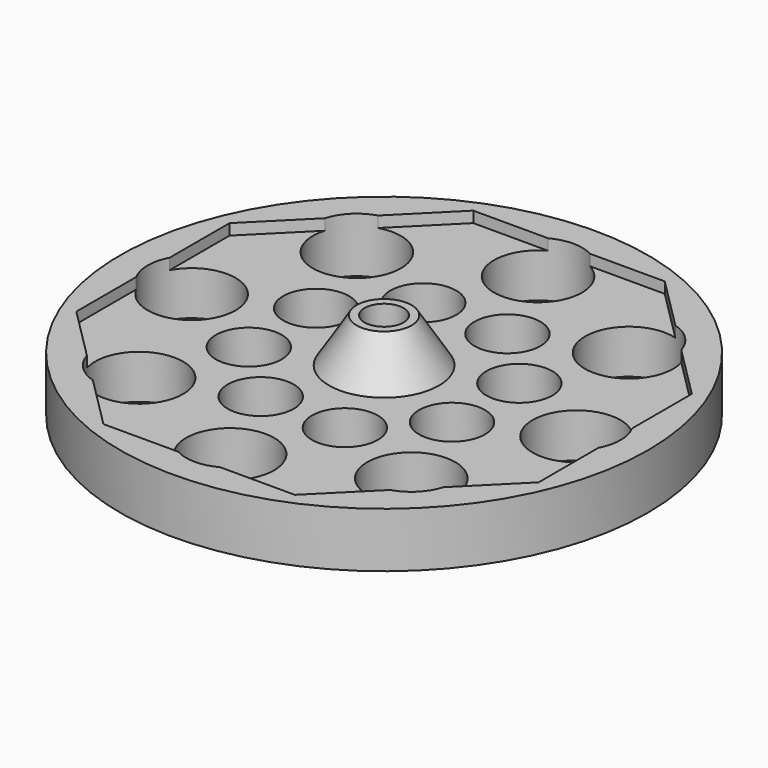
from build123d import *

# Parameters (mm, degrees)
SKETCH_R       = 48
SKETCH_R_2     = 8
SKETCH_R_3     = 6
PAD_DEPTH      = 10
POCKET_DEPTH   = 2
CYLINDER_R     = 3.55
CYLINDER_DEPTH = 16
BOX_W          = 3
BOX_H          = 1.7
BOX_DEPTH      = 9.5
TORUS_R        = 1.5
TORUS_ANGLE    = 90


with BuildPart() as part:
    # Sketch → Pad (new body)
    with BuildSketch(Plane.XY):
        Circle(SKETCH_R)
        with Locations((0, 35)):
            Circle(SKETCH_R_2, mode=Mode.SUBTRACT)
        with Locations((24.748737, 24.748737)):
            Circle(SKETCH_R_2, mode=Mode.SUBTRACT)
        with Locations((35, 0)):
            Circle(SKETCH_R_2, mode=Mode.SUBTRACT)
        with Locations((24.748737, -24.748737)):
            Circle(SKETCH_R_2, mode=Mode.SUBTRACT)
        with Locations((0, -35)):
            Circle(SKETCH_R_2, mode=Mode.SUBTRACT)
        with Locations((-24.748737, -24.748737)):
            Circle(SKETCH_R_2, mode=Mode.SUBTRACT)
        with Locations((-35, 0)):
            Circle(SKETCH_R_2, mode=Mode.SUBTRACT)
        with Locations((-24.748737, 24.748737)):
            Circle(SKETCH_R_2, mode=Mode.SUBTRACT)
        with Locations((-7.653669, -18.477591)):
            Circle(SKETCH_R_3, mode=Mode.SUBTRACT)
        with Locations((7.653669, -18.477591)):
            Circle(SKETCH_R_3, mode=Mode.SUBTRACT)
        with Locations((18.477591, -7.653669)):
            Circle(SKETCH_R_3, mode=Mode.SUBTRACT)
        with Locations((18.477591, 7.653669)):
            Circle(SKETCH_R_3, mode=Mode.SUBTRACT)
        with Locations((7.653669, 18.477591)):
            Circle(SKETCH_R_3, mode=Mode.SUBTRACT)
        with Locations((-7.653669, 18.477591)):
            Circle(SKETCH_R_3, mode=Mode.SUBTRACT)
        with Locations((-18.477591, 7.653669)):
            Circle(SKETCH_R_3, mode=Mode.SUBTRACT)
        with Locations((-18.477591, -7.653669)):
            Circle(SKETCH_R_3, mode=Mode.SUBTRACT)
    extrude(amount=PAD_DEPTH)

    # Sketch001 (on Face19 of Pad) → Pocket (cut)
    with BuildSketch(Plane.XY.offset(10)):
        Polygon((42.036519, 17.412096), (17.412096, 42.036519), (-17.412096, 42.036519), (-42.036519, 17.412096), (-42.036519, -17.412096), (-17.412096, -42.036519), (17.412096, -42.036519), (42.036519, -17.412096), align=None)
    extrude(amount=-POCKET_DEPTH, mode=Mode.SUBTRACT)

    # Cone → Cone (revolve)
    with BuildSketch(Plane(origin=(0, 0, 8), x_dir=(1, 0, 0), z_dir=(0, -1, 0))):
        Polygon((0, 0), (10, 0), (5, 8), (0, 8), align=None)
    revolve(axis=Axis((0, 0, 8), (0, 0, 1)))

    # Cylinder → Cylinder (cut)
    with BuildSketch(Plane(origin=(0, 0, 16), x_dir=(-1, 0, 0), z_dir=(0, 0, -1))):
        Circle(CYLINDER_R)
    extrude(amount=CYLINDER_DEPTH, mode=Mode.SUBTRACT)

    # Box → Box (cut)
    with BuildSketch(Plane(origin=(-0.8, -3, 0), x_dir=(0, -1, 0), z_dir=(0, 0, 1))):
        with Locations((1.5, 0.85)):
            Rectangle(BOX_W, BOX_H)
    extrude(amount=BOX_DEPTH, mode=Mode.SUBTRACT)

    # Torus → Torus (revolve, cut)
    with BuildSketch(Plane.XZ):
        with Locations((9, 0)):
            Circle(TORUS_R)
    revolve(axis=Axis((0, 0, 0), (0, 0, 1)), revolution_arc=TORUS_ANGLE, mode=Mode.SUBTRACT)


solid = part.part
